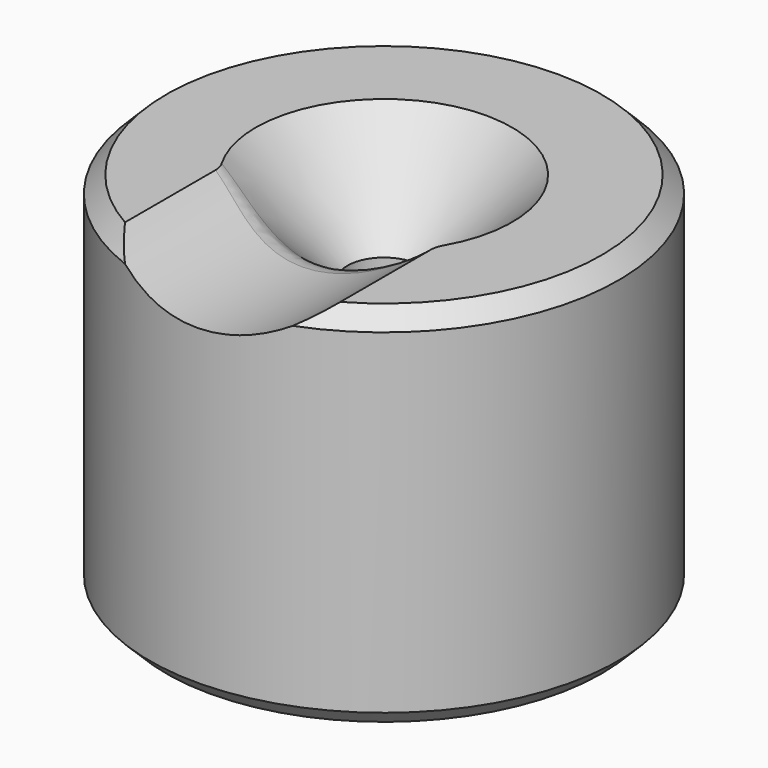
from build123d import *

# Parameters (mm, degrees)
F2_SIZE  = 0.79375
F3_R     = 7.9375
F4_DEPTH = 25.4
F5_R     = 1.5875
F7_D     = 3.4544
F8_D     = 6.5278
F8_DEPTH = 12.954
F8_TIP   = 1.9611489744


with BuildPart() as f1:
    # F0 (on Front) → F1 (revolve)
    with BuildSketch(Plane.XZ):
        Polygon((-11.1125, 0), (0, 0), (0, 11.3848719395), (-6.0776280605, 17.4625), (-11.1125, 17.4625), align=None)
    revolve(axis=Axis((0, 0, 5.6924359697), (0, 0, 1)))

    # F2
    f2_edges = [f1.edges().sort_by_distance(p)[0] for p in [
        (11.1125, 0, 0),
        (11.1125, 0, 17.4625),
    ]]
    chamfer(f2_edges, length=F2_SIZE)

    # F3 (on Front) → F4 (cut)
    with BuildSketch(Plane.XZ):
        with Locations((0, 23.5401280605)):
            Circle(F3_R)
    extrude(amount=F4_DEPTH, mode=Mode.SUBTRACT)

    # F5
    f5_edges = [f1.edges().sort_by_distance(p)[0] for p in [
        (0, -4.217756, 15.602628),
    ]]
    fillet(f5_edges, radius=F5_R)

    # F7 (through all)
    with Locations(Plane(origin=(0, 0, 0), x_dir=(1, 0, 0), z_dir=(0, 0, -1))):
        with Locations((0, 0)):
            Hole(F7_D / 2)

    # F8
    with Locations(Plane(origin=(0, 0, 0), x_dir=(1, 0, 0), z_dir=(0, 0, -1))):
        with Locations((6.35, 0), (-6.35, 0)):
            Hole(F8_D / 2, depth=F8_DEPTH)
            with Locations((0, 0, -(F8_DEPTH + F8_TIP / 2))):  # 118° drill point
                Cone(0, F8_D / 2, F8_TIP, mode=Mode.SUBTRACT)


solid = f1.part
